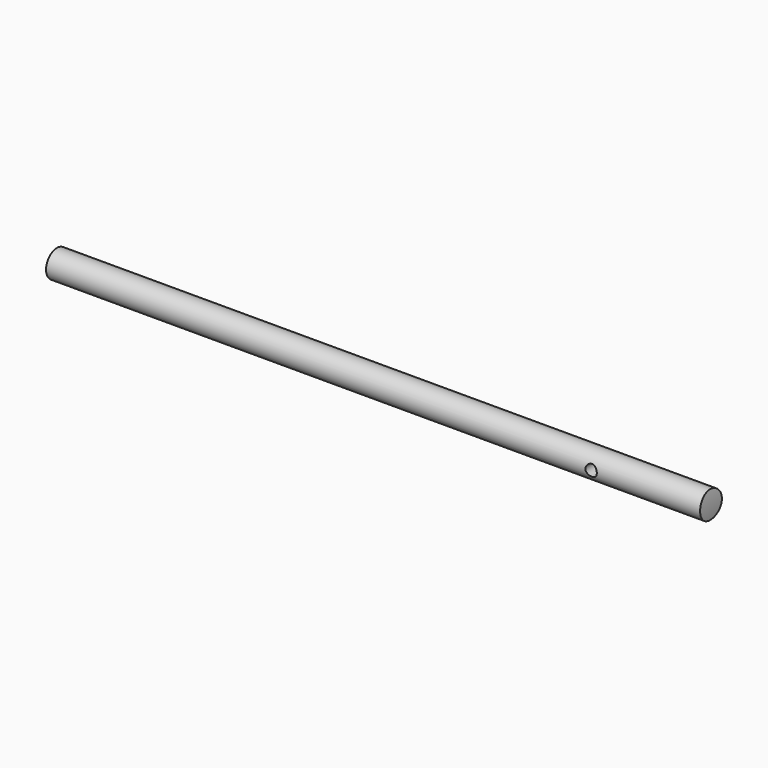
from build123d import *

# Parameters (mm, degrees)
F0_R     = 9.525
F1_DEPTH = 228.6
F2_R     = 3.96875
F3_DEPTH = 12.7


with BuildPart() as f1:
    # F0 (on Right) → F1 (new body, symmetric)
    with BuildSketch(Plane.YZ):
        Circle(F0_R)
    extrude(amount=F1_DEPTH, both=True)

    # F2 (on Front) → F3 (cut, symmetric)
    with BuildSketch(Plane.XZ):
        with Locations((152.4, 0)):
            Circle(F2_R)
        with BuildLine():
            ThreePointArc((228.002344, 9.525), (228.6, 0), (228.002344, -9.525))
            Line((228.002344, -9.525), (235.251516, -9.525))
            Line((235.251516, -9.525), (235.251516, 9.525))
            Line((235.251516, 9.525), (228.002344, 9.525))
        make_face()
    extrude(amount=F3_DEPTH, both=True, mode=Mode.SUBTRACT)


solid = f1.part
